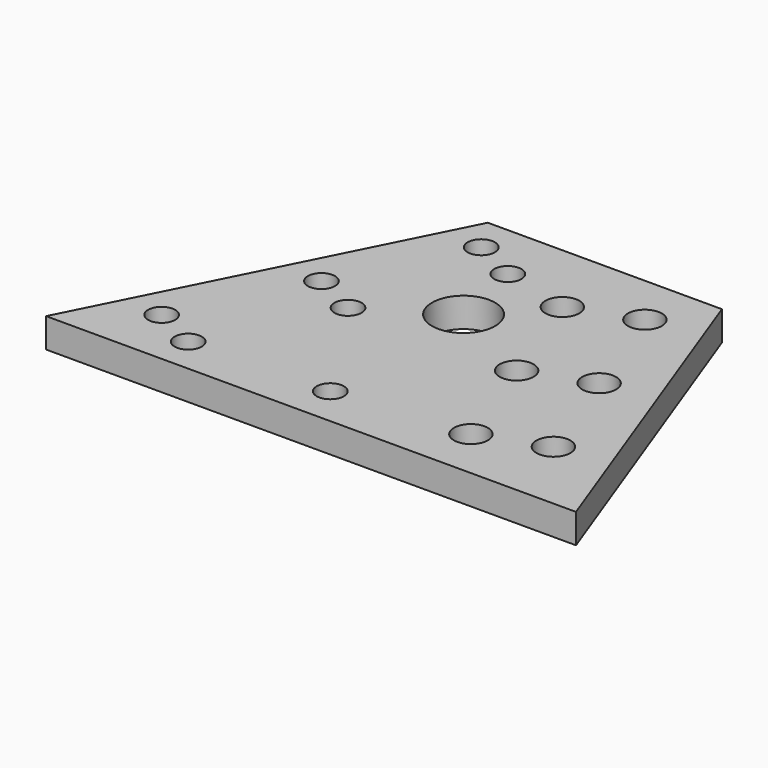
from build123d import *

# Parameters (mm, degrees)
F3_DEPTH = 13.0048
F4_D     = 15
F5_D     = 12
F6_D     = 27.94


with BuildPart() as f3:
    # F2 (on Top) → F3 (new body)
    with BuildSketch(Plane.XY):
        Polygon((54.3151245746, -38.1), (-49.1357887106, -38.1), (-124.5434206745, -187.848847558), (109.6256415023, -187.848847558), align=None)
    extrude(amount=F3_DEPTH)

    # F4 (through all)
    with Locations(Plane(origin=(0, 0, 0), x_dir=(1, 0, 0), z_dir=(0, 0, -1))):
        with Locations((38.4657377694, 60.85), (10.3239816143, 71.2443042339), (27.6568138595, 118.1715758959), (55.7985700146, 107.777271662), (44.9896461047, 165.098847558), (73.1314022598, 154.7045433241)):
            Hole(F4_D / 2)

    # F5 (through all)
    with Locations(Plane(origin=(0, 0, 0), x_dir=(1, 0, 0), z_dir=(0, 0, -1))):
        with Locations((-19.7833501507, 63.7446313346), (-39.4326827285, 53.85), (-66.7141442955, 108.0271081117), (-47.0648117177, 117.9217394463), (-74.3462732846, 172.098847558), (-93.9956058624, 162.2042162234), (-12.8873561721, 170.4100188799)):
            Hole(F5_D / 2)

    # F6 (through all)
    with Locations(Plane(origin=(0, 0, 0), x_dir=(1, 0, 0), z_dir=(0, 0, -1))):
        with Locations((-12.8873561721, 96.8135188799)):
            Hole(F6_D / 2)


solid = f3.part
